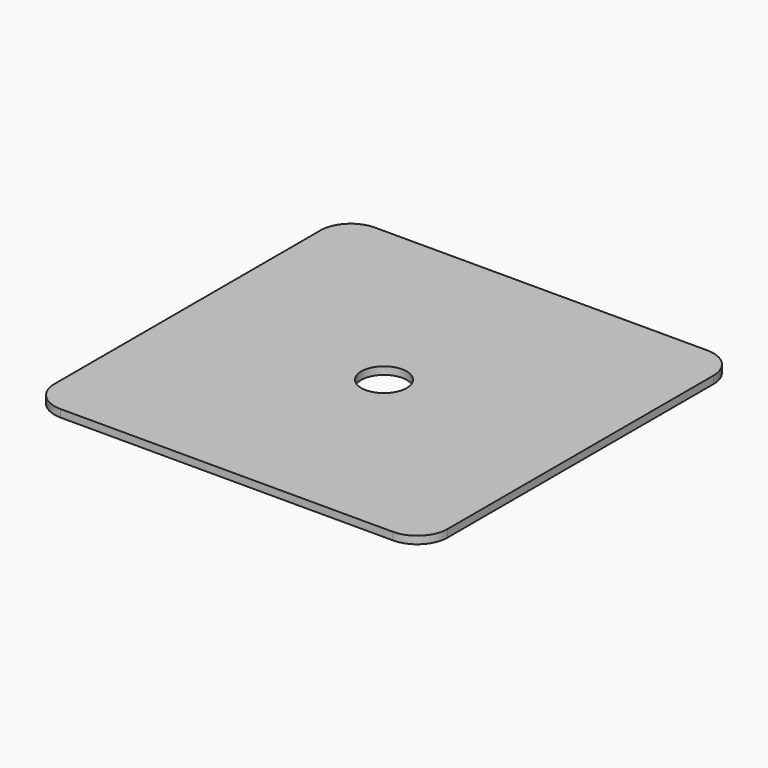
from build123d import *

# Parameters (mm, degrees)
PAD_DEPTH    = 1
SKETCH001_R  = 3
POCKET_DEPTH = 1.001


with BuildPart() as part:
    # Sketch → Pad (new body)
    with BuildSketch(Plane.XY):
        with BuildLine():
            Line((-26, 21.999982), (-26, -21.999982))
            ThreePointArc((-26, -21.999982), (-24.828421, -24.828421), (-21.999982, -26))
            Line((-21.999982, -26), (21.999982, -26))
            ThreePointArc((21.999982, -26), (24.828422, -24.828422), (26, -21.999982))
            Line((26, 21.999982), (26, -21.999982))
            ThreePointArc((26, 21.999982), (24.828422, 24.828422), (21.999982, 26))
            Line((-21.999982, 26), (21.999982, 26))
            ThreePointArc((-21.999982, 26), (-24.828427, 24.828427), (-26, 21.999982))
        make_face()
    extrude(amount=-PAD_DEPTH)

    # Sketch001 (on Face9 of Pad) → Pocket (cut, through all)
    with BuildSketch(Plane.XY):
        Circle(SKETCH001_R)
    extrude(amount=-POCKET_DEPTH, mode=Mode.SUBTRACT)


solid = part.part
